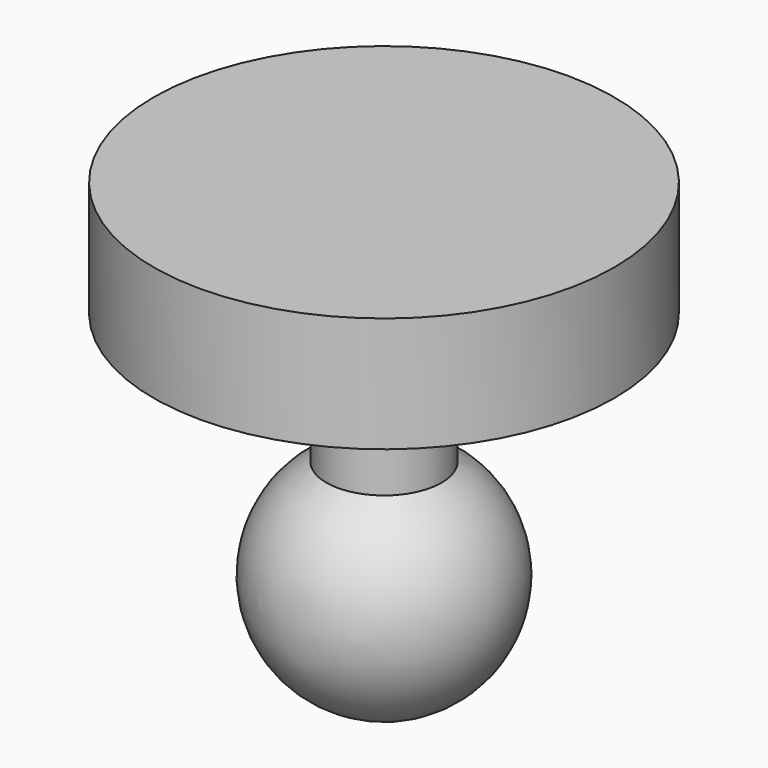
from build123d import *

# Parameters (mm, degrees)
F2_R     = 6.35
F3_DEPTH = 25.4
F4_R     = 25.4
F5_DEPTH = 12.7


with BuildPart() as f1:
    # F0 (on Top) → F1 (revolve)
    with BuildSketch(Plane.XY):
        with BuildLine():
            ThreePointArc((-12.7, 0), (0, -12.7), (12.7, 0))
            Line((12.7, 0), (-12.7, 0))
        make_face()
    revolve(axis=Axis((0, 0, 0), (1, 0, 0)))

    # F2 (on Top) → F3 (join)
    with BuildSketch(Plane.XY):
        Circle(F2_R)
    extrude(amount=F3_DEPTH)

    # F4 (on face) → F5 (join)
    with BuildSketch(Plane.XY.offset(25.4)):
        Circle(F4_R)
    extrude(amount=F5_DEPTH)


solid = f1.part
